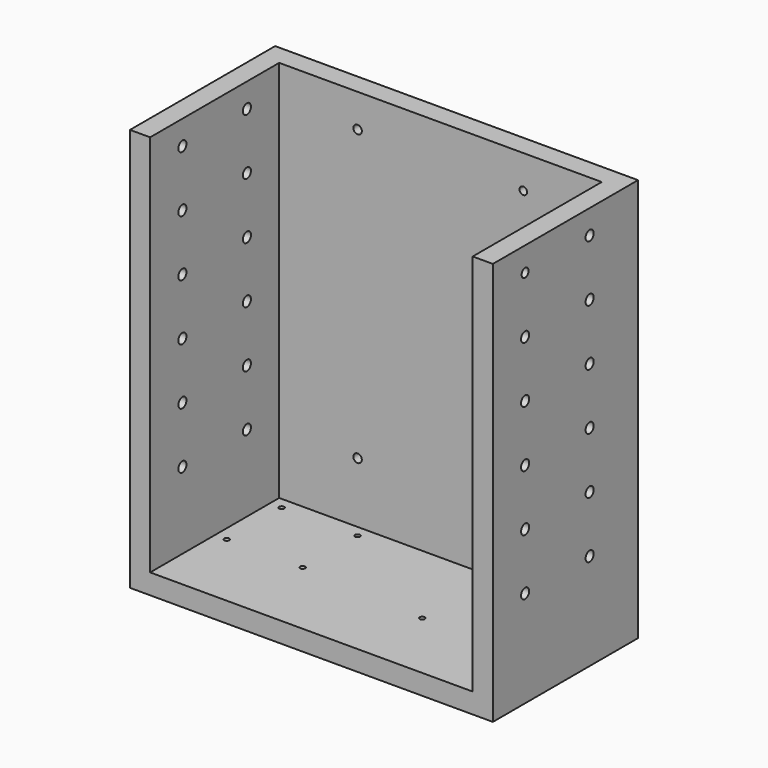
from build123d import *

# Parameters (mm, degrees)
F0_W      = 228.6
F0_H      = 254
F1_DEPTH  = 12.7
F3_DEPTH  = 101.6
F4_R      = 2.667
F4_R_2    = 2.381555
F5_DEPTH  = 25.4
F7_R      = 3.1877
F8_DEPTH  = 25.4
F6_R      = 3.1877
F6_R_2    = 2.750912
F9_DEPTH  = 25.4
F10_R     = 1.5875
F11_DEPTH = 12.701


with BuildPart() as f1:
    # F0 (on Front) → F1 (new body)
    with BuildSketch(Plane.XZ):
        with Locations((5.549081, 26.375307)):
            Rectangle(F0_W, F0_H)
    extrude(amount=F1_DEPTH)

    # F2 (on face) → F3 (join)
    with BuildSketch(Plane.XZ.offset(12.7)):
        Polygon((-96.050919, 153.375307), (-108.750919, 153.375307), (-108.750919, -100.624693), (119.849081, -100.624693), (119.849081, 153.375307), (107.149081, 153.375307), (107.149081, -87.924693), (-96.050919, -87.924693), align=None)
    extrude(amount=F3_DEPTH)

    # F4 (on face) → F5 (cut)
    with BuildSketch(Plane.XZ.offset(12.7)):
        with Locations((-46.647919, 132.445707)):
            Circle(F4_R)
        with Locations((57.746081, 132.445707)):
            Circle(F4_R_2)
        with Locations((57.746081, -49.824693)):
            Circle(F4_R)
        with Locations((-46.647919, -49.824693)):
            Circle(F4_R)
    extrude(amount=-F5_DEPTH, mode=Mode.SUBTRACT)

    # F7 (on face) → F8 (cut)
    with BuildSketch(Plane.YZ.offset(-96.050919)):
        with Locations((-88.9, 102.575307)):
            Circle(F7_R)
        with Locations((-88.9, 138.135307)):
            Circle(F7_R)
        with Locations((-38.1, 138.135307)):
            Circle(F7_R)
        with Locations((-38.1, 102.575307)):
            Circle(F7_R)
        with Locations((-38.1, 67.015307)):
            Circle(F7_R)
        with Locations((-88.9, 67.015307)):
            Circle(F7_R)
        with Locations((-38.1, 31.455307)):
            Circle(F7_R)
        with Locations((-88.9, 31.455307)):
            Circle(F7_R)
        with Locations((-88.9, -39.664693)):
            Circle(F7_R)
        with Locations((-88.9, -4.104693)):
            Circle(F7_R)
        with Locations((-38.1, -4.104693)):
            Circle(F7_R)
        with Locations((-38.1, -39.664693)):
            Circle(F7_R)
    extrude(amount=-F8_DEPTH, mode=Mode.SUBTRACT)

    # F6 (on face) → F9 (cut)
    with BuildSketch(Plane(origin=(107.149081, 0, 0), x_dir=(0, -1, 0), z_dir=(-1, 0, 0))):
        with Locations((38.1, 138.135307)):
            Circle(F6_R)
        with Locations((88.9, 138.135307)):
            Circle(F6_R_2)
        with Locations((38.1, 102.575307)):
            Circle(F6_R)
        with Locations((88.9, 102.575307)):
            Circle(F6_R)
        with Locations((38.1, 67.015307)):
            Circle(F6_R)
        with Locations((88.9, 67.015307)):
            Circle(F6_R)
        with Locations((38.1, 31.455307)):
            Circle(F6_R)
        with Locations((88.9, 31.455307)):
            Circle(F6_R)
        with Locations((38.1, -4.104693)):
            Circle(F6_R)
        with Locations((88.9, -4.104693)):
            Circle(F6_R)
        with Locations((38.1, -39.664693)):
            Circle(F6_R)
        with Locations((88.9, -39.664693)):
            Circle(F6_R)
    extrude(amount=-F9_DEPTH, mode=Mode.SUBTRACT)

    # F10 (on face) → F11 (cut, through all)
    with BuildSketch(Plane.XY.offset(-87.924693)):
        with Locations((38.911981, -19.8501)):
            Circle(F10_R)
        with Locations((99.948181, -19.8501)):
            Circle(F10_R)
        with Locations((99.948181, -68.6943)):
            Circle(F10_R)
        with Locations((38.911981, -68.6943)):
            Circle(F10_R)
        with Locations((-40.767819, -20.0406)):
            Circle(F10_R)
        with Locations((-40.767819, -63.2714)):
            Circle(F10_R)
        with Locations((-88.596019, -63.2714)):
            Circle(F10_R)
        with Locations((-88.596019, -20.0406)):
            Circle(F10_R)
    extrude(amount=-F11_DEPTH, mode=Mode.SUBTRACT)


solid = f1.part
